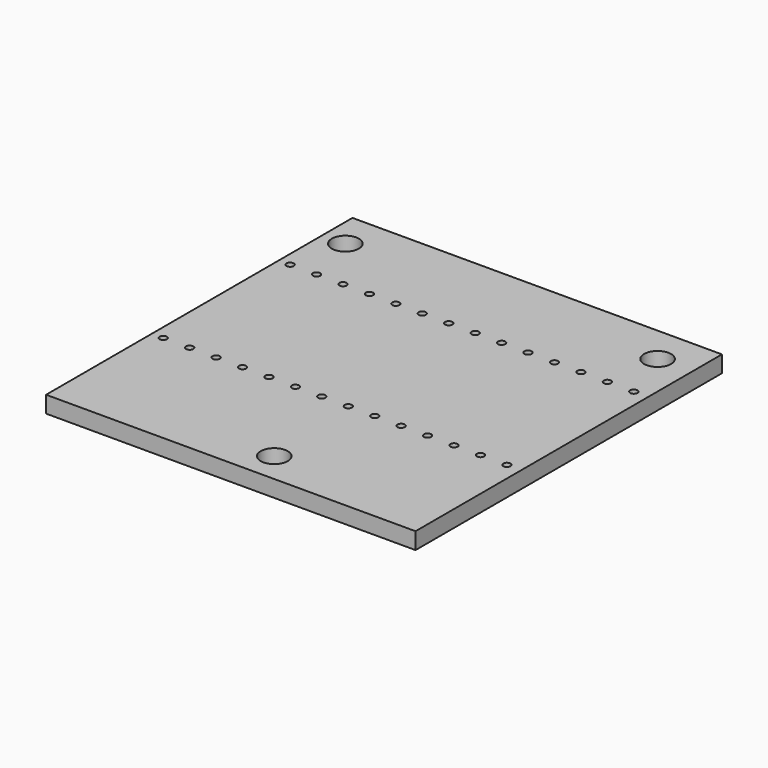
from build123d import *

# Parameters (mm, degrees)
CYLINDER008_R     = 0.35
CYLINDER008_DEPTH = 1.6
CYLINDER009_R     = 0.35
CYLINDER009_DEPTH = 1.6
CYLINDER013_R     = 0.35
CYLINDER013_DEPTH = 1.6
CYLINDER018_R     = 0.35
CYLINDER018_DEPTH = 1.6
CYLINDER012_R     = 0.35
CYLINDER012_DEPTH = 1.6
CYLINDER015_R     = 0.35
CYLINDER015_DEPTH = 1.6
CYLINDER014_R     = 0.35
CYLINDER014_DEPTH = 1.6
CYLINDER016_R     = 0.35
CYLINDER016_DEPTH = 1.6
CYLINDER011_R     = 0.35
CYLINDER011_DEPTH = 1.6
CYLINDER010_R     = 0.35
CYLINDER010_DEPTH = 1.6
CYLINDER019_R     = 0.35
CYLINDER019_DEPTH = 1.6
CYLINDER020_R     = 0.35
CYLINDER020_DEPTH = 1.6
CYLINDER017_R     = 0.35
CYLINDER017_DEPTH = 1.6
CYLINDER004_R     = 0.35
CYLINDER004_DEPTH = 1.6
CYLINDER002_R     = 1.3
CYLINDER002_DEPTH = 1.6
CYLINDER001_R     = 1.3
CYLINDER001_DEPTH = 1.6
CYLINDER_R        = 1.3
CYLINDER_DEPTH    = 1.6
BOX_W             = 35.5
BOX_H             = 36.8
BOX_DEPTH         = 1.6


with BuildPart() as cylinder008:
    # Cylinder008 → Cylinder008 (new body)
    with BuildSketch(Plane(origin=(1.1, 12.7, 0), x_dir=(1, 0, 0), z_dir=(0, 0, 1))):
        Circle(CYLINDER008_R)
    extrude(amount=CYLINDER008_DEPTH)


with BuildPart() as cylinder009:
    # Cylinder009 → Cylinder009 (new body)
    with BuildSketch(Plane(origin=(8.72, 12.7, 0), x_dir=(1, 0, 0), z_dir=(0, 0, 1))):
        Circle(CYLINDER009_R)
    extrude(amount=CYLINDER009_DEPTH)


with BuildPart() as cylinder013:
    # Cylinder013 → Cylinder013 (new body)
    with BuildSketch(Plane(origin=(18.88, 12.7, 0), x_dir=(1, 0, 0), z_dir=(0, 0, 1))):
        Circle(CYLINDER013_R)
    extrude(amount=CYLINDER013_DEPTH)


with BuildPart() as cylinder018:
    # Cylinder018 → Cylinder018 (new body)
    with BuildSketch(Plane(origin=(34.12, 12.7, 0), x_dir=(1, 0, 0), z_dir=(0, 0, 1))):
        Circle(CYLINDER018_R)
    extrude(amount=CYLINDER018_DEPTH)


with BuildPart() as cylinder012:
    # Cylinder012 → Cylinder012 (new body)
    with BuildSketch(Plane(origin=(13.8, 12.7, 0), x_dir=(1, 0, 0), z_dir=(0, 0, 1))):
        Circle(CYLINDER012_R)
    extrude(amount=CYLINDER012_DEPTH)


with BuildPart() as cylinder015:
    # Cylinder015 → Cylinder015 (new body)
    with BuildSketch(Plane(origin=(21.42, 12.7, 0), x_dir=(1, 0, 0), z_dir=(0, 0, 1))):
        Circle(CYLINDER015_R)
    extrude(amount=CYLINDER015_DEPTH)


with BuildPart() as cylinder014:
    # Cylinder014 → Cylinder014 (new body)
    with BuildSketch(Plane(origin=(23.96, 12.7, 0), x_dir=(1, 0, 0), z_dir=(0, 0, 1))):
        Circle(CYLINDER014_R)
    extrude(amount=CYLINDER014_DEPTH)


with BuildPart() as cylinder016:
    # Cylinder016 → Cylinder016 (new body)
    with BuildSketch(Plane(origin=(16.34, 12.7, 0), x_dir=(1, 0, 0), z_dir=(0, 0, 1))):
        Circle(CYLINDER016_R)
    extrude(amount=CYLINDER016_DEPTH)


with BuildPart() as cylinder011:
    # Cylinder011 → Cylinder011 (new body)
    with BuildSketch(Plane(origin=(11.26, 12.7, 0), x_dir=(1, 0, 0), z_dir=(0, 0, 1))):
        Circle(CYLINDER011_R)
    extrude(amount=CYLINDER011_DEPTH)


with BuildPart() as cylinder010:
    # Cylinder010 → Cylinder010 (new body)
    with BuildSketch(Plane(origin=(6.18, 12.7, 0), x_dir=(1, 0, 0), z_dir=(0, 0, 1))):
        Circle(CYLINDER010_R)
    extrude(amount=CYLINDER010_DEPTH)


with BuildPart() as cylinder019:
    # Cylinder019 → Cylinder019 (new body)
    with BuildSketch(Plane(origin=(31.58, 12.7, 0), x_dir=(1, 0, 0), z_dir=(0, 0, 1))):
        Circle(CYLINDER019_R)
    extrude(amount=CYLINDER019_DEPTH)


with BuildPart() as cylinder020:
    # Cylinder020 → Cylinder020 (new body)
    with BuildSketch(Plane(origin=(26.5, 12.7, 0), x_dir=(1, 0, 0), z_dir=(0, 0, 1))):
        Circle(CYLINDER020_R)
    extrude(amount=CYLINDER020_DEPTH)


with BuildPart() as cylinder017:
    # Cylinder017 → Cylinder017 (new body)
    with BuildSketch(Plane(origin=(29.04, 12.7, 0), x_dir=(1, 0, 0), z_dir=(0, 0, 1))):
        Circle(CYLINDER017_R)
    extrude(amount=CYLINDER017_DEPTH)


with BuildPart() as cylinder004:
    # Cylinder004 → Cylinder004 (new body)
    with BuildSketch(Plane(origin=(3.64, 12.7, 0), x_dir=(1, 0, 0), z_dir=(0, 0, 1))):
        Circle(CYLINDER004_R)
    extrude(amount=CYLINDER004_DEPTH)


with BuildPart() as compound001:
    # Compound001 base: copy of Cylinder004
    add(cylinder004.part)

    # Compound001: union Cylinder008, Cylinder009, Cylinder013, Cylinder018, Cylinder012, Cylinder015, Cylinder014, Cylinder016, Cylinder011, Cylinder010, Cylinder019, Cylinder020, Cylinder017
    add(cylinder008.part)
    add(cylinder009.part)
    add(cylinder013.part)
    add(cylinder018.part)
    add(cylinder012.part)
    add(cylinder015.part)
    add(cylinder014.part)
    add(cylinder016.part)
    add(cylinder011.part)
    add(cylinder010.part)
    add(cylinder019.part)
    add(cylinder020.part)
    add(cylinder017.part)


with BuildPart() as compound001_1:
    # Compound001 placement: moved
    add(compound001.part.moved(Location((0, 15.24, 0))))


with BuildPart() as compound:
    # Compound base: copy of Cylinder004
    add(cylinder004.part)

    # Compound: union Cylinder008, Cylinder009, Cylinder013, Cylinder018, Cylinder012, Cylinder015, Cylinder014, Cylinder016, Cylinder011, Cylinder010, Cylinder019, Cylinder020, Cylinder017
    add(cylinder008.part)
    add(cylinder009.part)
    add(cylinder013.part)
    add(cylinder018.part)
    add(cylinder012.part)
    add(cylinder015.part)
    add(cylinder014.part)
    add(cylinder016.part)
    add(cylinder011.part)
    add(cylinder010.part)
    add(cylinder019.part)
    add(cylinder020.part)
    add(cylinder017.part)


with BuildPart() as cylinder002:
    # Cylinder002 → Cylinder002 (new body)
    with BuildSketch(Plane(origin=(32.2, 33.2, 0), x_dir=(1, 0, 0), z_dir=(0, 0, 1))):
        Circle(CYLINDER002_R)
    extrude(amount=CYLINDER002_DEPTH)


with BuildPart() as cylinder001:
    # Cylinder001 → Cylinder001 (new body)
    with BuildSketch(Plane(origin=(2.2, 33.2, 0), x_dir=(1, 0, 0), z_dir=(0, 0, 1))):
        Circle(CYLINDER001_R)
    extrude(amount=CYLINDER001_DEPTH)


with BuildPart() as cylinder:
    # Cylinder → Cylinder (new body)
    with BuildSketch(Plane(origin=(19.6, 2.9, 0), x_dir=(1, 0, 0), z_dir=(0, 0, 1))):
        Circle(CYLINDER_R)
    extrude(amount=CYLINDER_DEPTH)


with BuildPart() as cut005:
    # Box → Box (new body)
    with BuildSketch(Plane.XY):
        with Locations((17.75, 18.4)):
            Rectangle(BOX_W, BOX_H)
    extrude(amount=BOX_DEPTH)

    # Cut: cut Cylinder
    add(cylinder.part, mode=Mode.SUBTRACT)

    # Cut001: cut Cylinder001
    add(cylinder001.part, mode=Mode.SUBTRACT)

    # Cut002: cut Cylinder002
    add(cylinder002.part, mode=Mode.SUBTRACT)

    # Cut004: cut Compound
    add(compound.part, mode=Mode.SUBTRACT)

    # Cut005: cut Compound001
    add(compound001_1.part, mode=Mode.SUBTRACT)


solid = cut005.part
